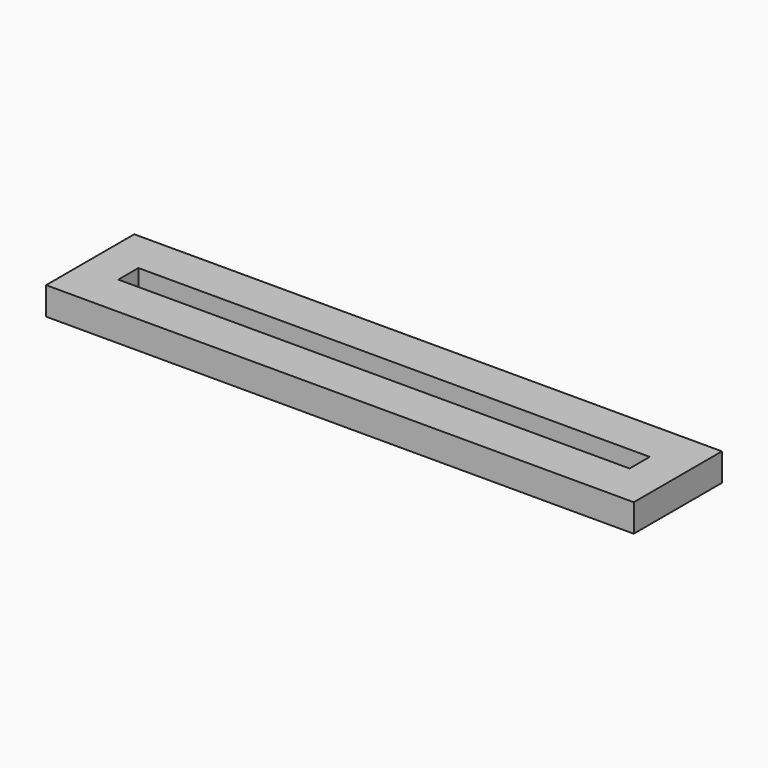
from build123d import *

# Parameters (mm, degrees)
F0_W     = 101.6
F0_H     = 19.05
F1_DEPTH = 4.8006


with BuildPart() as f1:
    # F0 (on Top) → F1 (new body)
    with BuildSketch(Plane.XY):
        with Locations((11.543509, 23.210619)):
            Rectangle(F0_W, F0_H)
        Polygon((55.739509, 25.382319), (55.739509, 23.210619), (55.739509, 21.038919), (-32.652491, 21.038919), (-32.652491, 23.210619), (-32.652491, 25.382319), align=None, mode=Mode.SUBTRACT)
    extrude(amount=F1_DEPTH)


solid = f1.part
